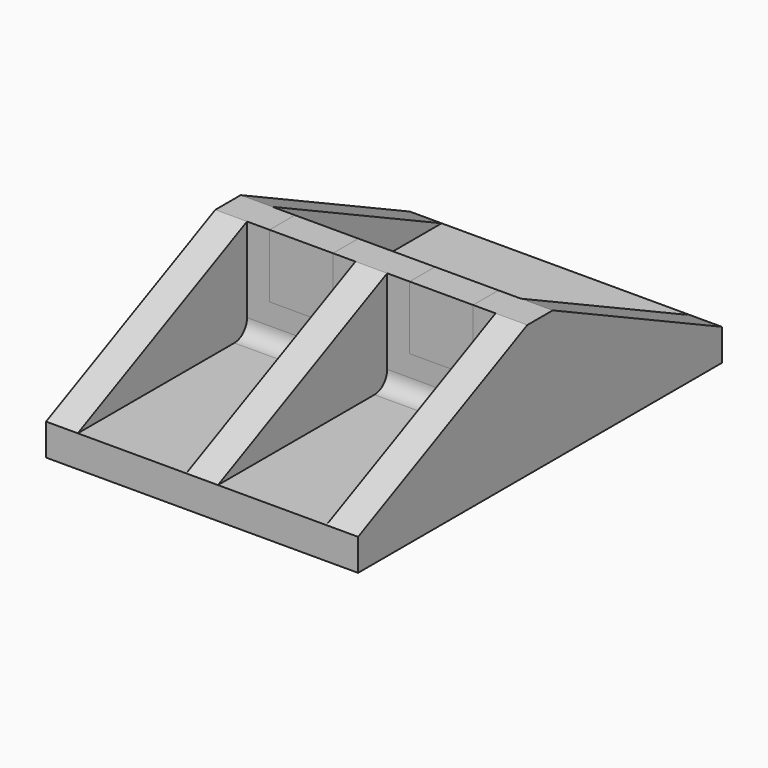
from build123d import *

# Parameters (mm, degrees)
F0_W     = 59
F0_H     = 86
F1_DEPTH = 6
F3_DEPTH = 19
F5_DEPTH = 59.001
F6_W     = 12
F6_H     = 12
F7_DEPTH = 6
F8_R     = 3


with BuildPart() as f1:
    # F0 (on Top) → F1 (new body)
    with BuildSketch(Plane.XY):
        Rectangle(F0_W, F0_H)
    extrude(amount=F1_DEPTH)

    # F2 (on face) → F3 (join)
    with BuildSketch(Plane.XY.offset(6)):
        Polygon((-23.5, 43), (-29.5, 43), (-29.5, -43), (-23.5, -43), (-23.5, -3), (-3, -3), (-3, -43), (3, -43), (3, -3), (23.5, -3), (23.5, -43), (29.5, -43), (29.5, 43), (23.5, 43), (23.5, 3), (-23.5, 3), align=None)
    extrude(amount=F3_DEPTH)

    # F4 (on face) → F5 (cut, through all)
    with BuildSketch(Plane.YZ.offset(29.5)):
        Polygon((-43, 25), (-43, 6), (-3, 25), align=None)
        Polygon((43, 25), (3, 25), (43, 6), align=None)
    extrude(amount=-F5_DEPTH, mode=Mode.SUBTRACT)

    # F8
    f8_edges = [f1.edges().sort_by_distance(p)[0] for p in [
        (-13.25, -3, 6),
        (13.25, -3, 6),
        (0, 3, 6),
    ]]
    fillet(f8_edges, radius=F8_R)


with BuildPart() as f7:
    # F6 (on face) → F7 (new body)
    with BuildSketch(Plane.XZ.offset(3)):
        with Locations((-13.25, 19)):
            Rectangle(F6_W, F6_H)
        with Locations((13.25, 19)):
            Rectangle(F6_W, F6_H)
    extrude(amount=-F7_DEPTH)


solid = Compound([f1.part, f7.part])
